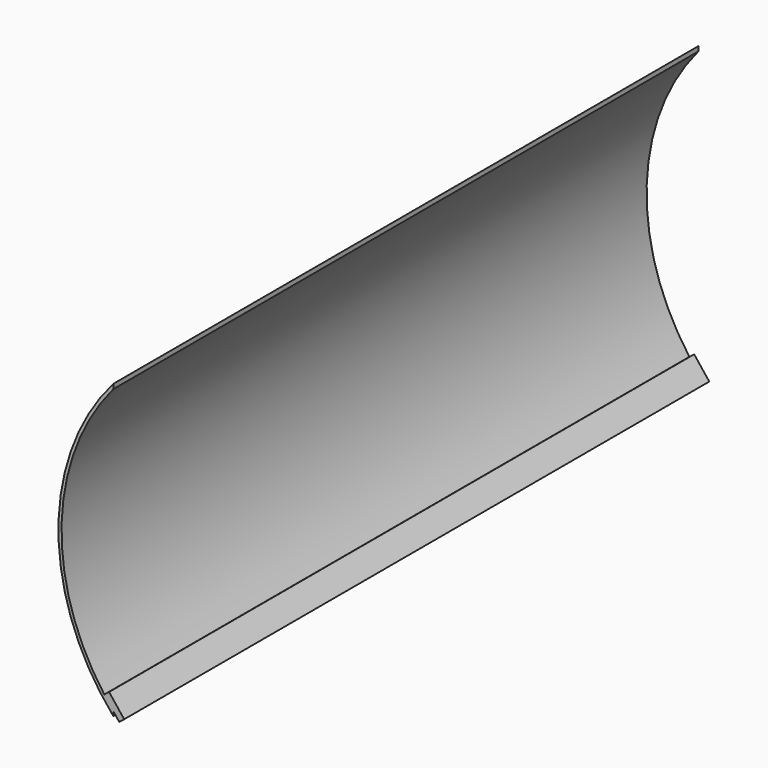
from build123d import *

# Parameters (mm, degrees)
F1_DEPTH = 381
F3_DEPTH = 127
F5_DEPTH = 381


with BuildPart() as f1:
    # F0 (on Front) → F1 (new body, symmetric)
    with BuildSketch(Plane.XZ):
        with BuildLine():
            ThreePointArc((-174.625, -147.526504), (-228.6, 0), (-174.625, 147.526504))
            Line((-174.625, 147.526504), (-174.625, 152.4))
            ThreePointArc((-174.625, 152.4), (-231.775, 0), (-174.625, -152.4))
            Line((-174.625, -152.4), (-174.625, -147.526504))
        make_face()
    extrude(amount=F1_DEPTH, both=True)

    # F2 (on Front) → F3 (join, symmetric)
    with BuildSketch(Plane.XZ):
        Polygon((-226.20073, 88.459134), (-243.843385, -11.597334), (-237.339714, -12.744107), (-219.69706, 87.312361), align=None)
        Polygon((-226.20073, 88.459134), (-243.843385, -11.597334), (-237.339714, -12.744107), (-219.69706, 87.312361), align=None)
    extrude(amount=F3_DEPTH, both=True)

    # F4 (on Front) → F5 (join, symmetric)
    with BuildSketch(Plane.XZ):
        Polygon((-168.469529, -155.732401), (-163.286397, -151.639974), (-179.026501, -131.704851), (-184.209633, -135.797278), align=None)
    extrude(amount=F5_DEPTH, both=True)


solid = f1.part
